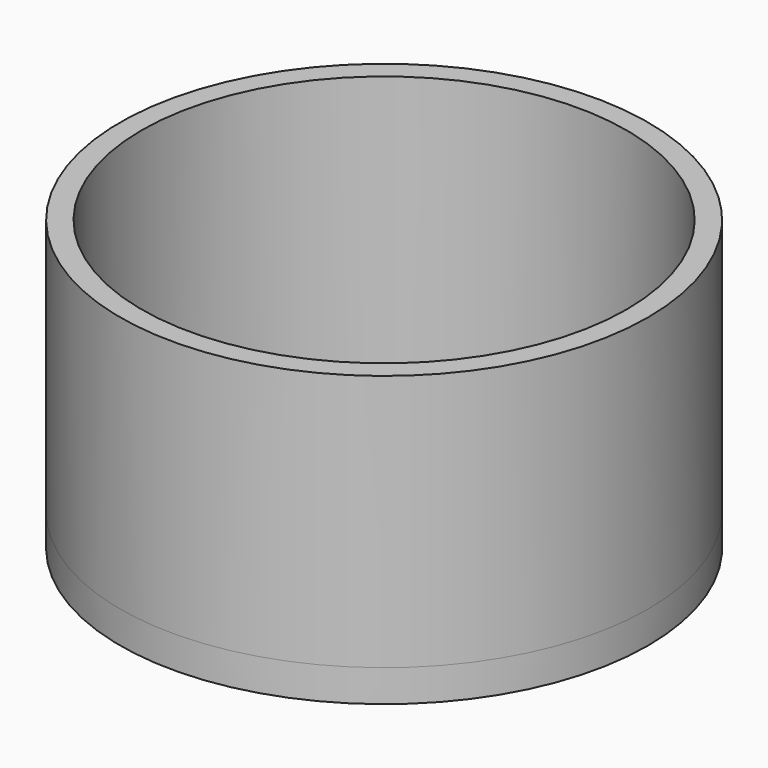
from build123d import *

# Parameters (mm, degrees)
F1_R     = 18.5
F1_R_2   = 17
F1_R_3   = 5.15
F2_DEPTH = 2.25
F3_DEPTH = 18


with BuildPart() as f2:
    # F1 (on Top) → F2 (new body)
    with BuildSketch(Plane.XY):
        Circle(F1_R)
        Circle(F1_R_2, mode=Mode.SUBTRACT)
        Circle(F1_R_2)
        with Locations((0, -8)):
            Circle(F1_R_3, mode=Mode.SUBTRACT)
        with Locations((0, 8)):
            Circle(F1_R_3, mode=Mode.SUBTRACT)
    extrude(amount=-F2_DEPTH)

    # F1 (on Top) → F3 (join)
    with BuildSketch(Plane.XY):
        Circle(F1_R)
        Circle(F1_R_2, mode=Mode.SUBTRACT)
    extrude(amount=F3_DEPTH)


solid = f2.part
